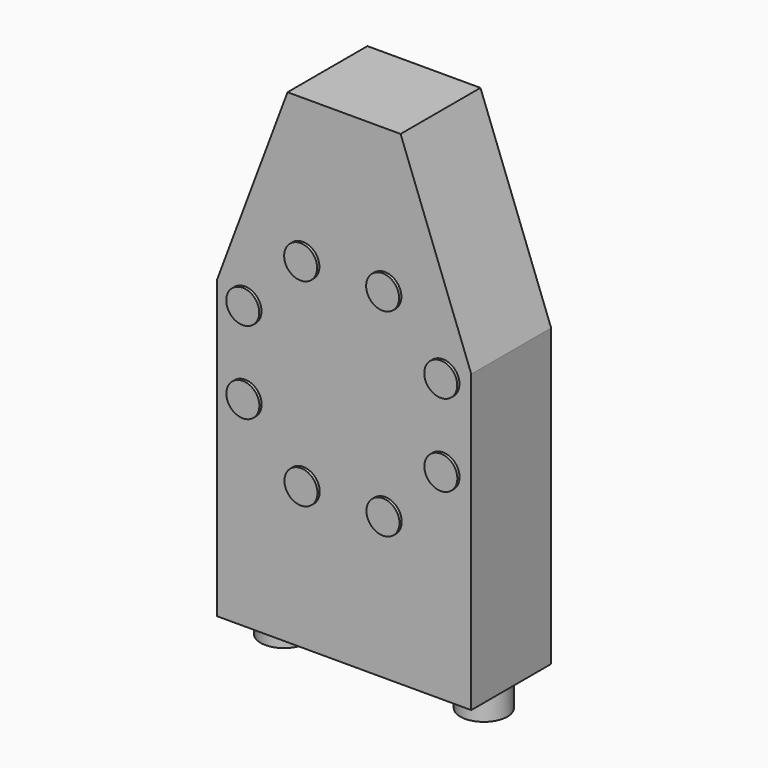
from build123d import *

# Parameters (mm, degrees)
F1_DEPTH = 53
F2_R     = 17.5
F3_DEPTH = 3
F4_R     = 5
F5_DEPTH = 25
F6_R     = 25
F7_DEPTH = 29


with BuildPart() as f1:
    # F0 (on Front) → F1 (new body, symmetric)
    with BuildSketch(Plane.XZ):
        Polygon((135, 57), (60, 257), (-60, 257), (-135, 57), (-135, -257), (135, -257), align=None)
    extrude(amount=F1_DEPTH, both=True)

    # F2 (on face) → F3 (join)
    with BuildSketch(Plane.XZ.offset(53)):
        with Locations((105, 43.7)):
            Circle(F2_R)
        with Locations((43.345646, 105.146778)):
            Circle(F2_R)
        with Locations((-43.7, 105)):
            Circle(F2_R)
        with Locations((-105.146778, 43.345646)):
            Circle(F2_R)
        with Locations((-105, -43.7)):
            Circle(F2_R)
        with Locations((-43.345646, -105.146778)):
            Circle(F2_R)
        with Locations((43.7, -105)):
            Circle(F2_R)
        with Locations((105.146778, -43.345646)):
            Circle(F2_R)
    extrude(amount=F3_DEPTH)

    # F4 (on face) → F5 (cut)
    with BuildSketch(Plane(origin=(0, 53, 0), x_dir=(-1, 0, 0), z_dir=(0, 1, 0))):
        Circle(F4_R)
        with Locations((0, 197)):
            Circle(F4_R)
        with Locations((0, -197)):
            Circle(F4_R)
    extrude(amount=-F5_DEPTH, mode=Mode.SUBTRACT)

    # F6 (on face) → F7 (join)
    with BuildSketch(Plane(origin=(0, 0, -257), x_dir=(1, 0, 0), z_dir=(0, 0, -1))):
        with Locations((106, 0)):
            Circle(F6_R)
        with Locations((-106, 0)):
            Circle(F6_R)
    extrude(amount=F7_DEPTH)


solid = f1.part
